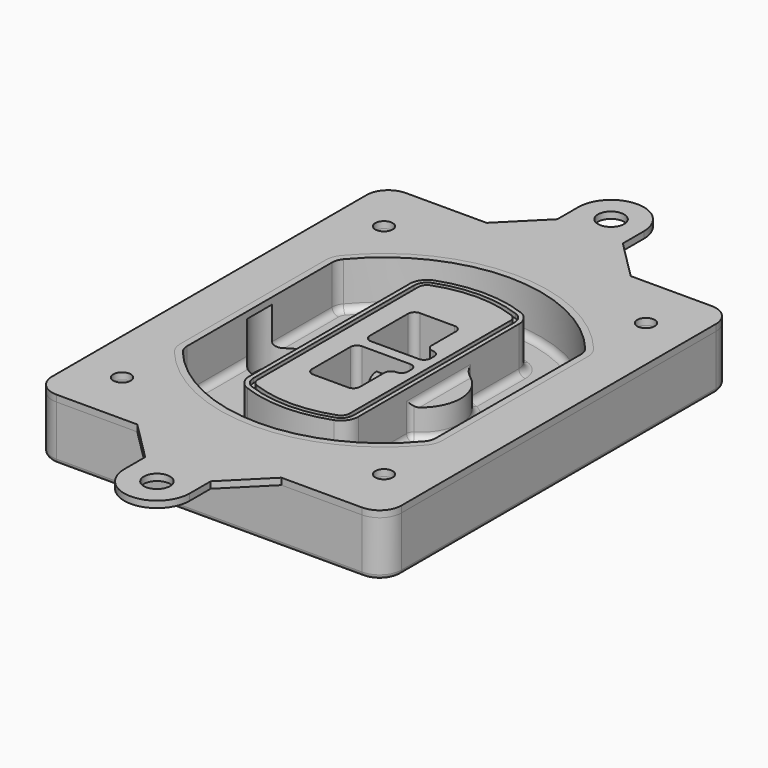
from build123d import *

# Parameters (mm, degrees)
F0_R      = 4
F1_DEPTH  = 25
F2_DEPTH  = 3
F3_DEPTH  = 18
F5_DEPTH  = 21
F6_DEPTH  = 2
F8_DEPTH  = 20
F9_DEPTH  = 16
F10_DEPTH = 25
F7_R      = 6
F7_R_2    = 4
F11_DEPTH = 6
F13_DEPTH = 9
F14_R     = 3
F15_R     = 2
F16_R     = 4
F16_R_2   = 6
F17_DEPTH = 3


with BuildPart() as f1:
    # F0 (on Top) → F1 (new body)
    with BuildSketch(Plane.XY):
        with BuildLine():
            ThreePointArc((-80, -90), (-77.0710678119, -97.0710678119), (-70, -100))
            Line((-70, -100), (70, -100))
            ThreePointArc((70, -100), (77.0710678119, -97.0710678119), (80, -90))
            Line((80, -90), (80, 90))
            ThreePointArc((80, 90), (77.0710678119, 97.0710678119), (70, 100))
            Line((70, 100), (-70, 100))
            ThreePointArc((-70, 100), (-77.0710678119, 97.0710678119), (-80, 90))
            Line((-80, 90), (-80, -90))
        make_face()
        with Locations((-60, -75)):
            Circle(F0_R, mode=Mode.SUBTRACT)
        with Locations((60, -75)):
            Circle(F0_R, mode=Mode.SUBTRACT)
        with Locations((-60, 75)):
            Circle(F0_R, mode=Mode.SUBTRACT)
        with BuildLine():
            ThreePointArc((-64, 41.5331193146), (-63.1675592038, 46.288682858), (-60.7692307692, 50.4787142439))
            ThreePointArc((-60.7692307692, 50.4787142439), (0, 79), (60.7692307692, 50.4787142439))
            ThreePointArc((60.7692307692, 50.4787142439), (63.1675592038, 46.288682858), (64, 41.5331193146))
            Line((64, 41.5331193146), (64, -41.5331193146))
            ThreePointArc((64, -41.5331193146), (63.1675592038, -46.288682858), (60.7692307692, -50.4787142439))
            ThreePointArc((60.7692307692, -50.4787142439), (0, -79), (-60.7692307692, -50.4787142439))
            ThreePointArc((-60.7692307692, -50.4787142439), (-63.1675592038, -46.288682858), (-64, -41.5331193146))
            Line((-64, -41.5331193146), (-64, 41.5331193146))
        make_face(mode=Mode.SUBTRACT)
        with Locations((60, 75)):
            Circle(F0_R, mode=Mode.SUBTRACT)
        with BuildLine():
            ThreePointArc((60.7692307692, 50.4787142439), (0, 79), (-60.7692307692, 50.4787142439))
            ThreePointArc((-60.7692307692, 50.4787142439), (-63.1675592038, 46.288682858), (-64, 41.5331193146))
            Line((-64, 41.5331193146), (-64, -41.5331193146))
            ThreePointArc((-64, -41.5331193146), (-63.1675592038, -46.288682858), (-60.7692307692, -50.4787142439))
            ThreePointArc((-60.7692307692, -50.4787142439), (0, -79), (60.7692307692, -50.4787142439))
            ThreePointArc((60.7692307692, -50.4787142439), (63.1675592038, -46.288682858), (64, -41.5331193146))
            Line((64, -41.5331193146), (64, 41.5331193146))
            ThreePointArc((64, 41.5331193146), (63.1675592038, 46.288682858), (60.7692307692, 50.4787142439))
        make_face()
        with BuildLine():
            Line((-60, -41.5331193146), (-60, 41.5331193146))
            ThreePointArc((-60, 41.5331193146), (-59.4053994313, 44.929950417), (-57.6923076923, 47.9228299784))
            ThreePointArc((-57.6923076923, 47.9228299784), (0, 75), (57.6923076923, 47.9228299784))
            ThreePointArc((57.6923076923, 47.9228299784), (59.4053994313, 44.929950417), (60, 41.5331193146))
            Line((60, 41.5331193146), (60, -41.5331193146))
            ThreePointArc((60, -41.5331193146), (59.4053994313, -44.929950417), (57.6923076923, -47.9228299784))
            ThreePointArc((57.6923076923, -47.9228299784), (0, -75), (-57.6923076923, -47.9228299784))
            ThreePointArc((-57.6923076923, -47.9228299784), (-59.4053994313, -44.929950417), (-60, -41.5331193146))
        make_face(mode=Mode.SUBTRACT)
        with BuildLine():
            ThreePointArc((-57.6923076923, 47.9228299784), (-59.4053994313, 44.929950417), (-60, 41.5331193146))
            Line((-60, 41.5331193146), (-60, -41.5331193146))
            ThreePointArc((-60, -41.5331193146), (-59.4053994313, -44.929950417), (-57.6923076923, -47.9228299784))
            ThreePointArc((-57.6923076923, -47.9228299784), (0, -75), (57.6923076923, -47.9228299784))
            ThreePointArc((57.6923076923, -47.9228299784), (59.4053994313, -44.929950417), (60, -41.5331193146))
            Line((60, -41.5331193146), (60, 41.5331193146))
            ThreePointArc((60, 41.5331193146), (59.4053994313, 44.929950417), (57.6923076923, 47.9228299784))
            ThreePointArc((57.6923076923, 47.9228299784), (0, 75), (-57.6923076923, 47.9228299784))
        make_face()
        with BuildLine():
            ThreePointArc((55.3846153846, 46.0059167792), (56.5837796019, 43.9109010863), (57, 41.5331193146))
            Line((57, 41.5331193146), (57, -41.5331193146))
            ThreePointArc((57, -41.5331193146), (56.5837796019, -43.9109010863), (55.3846153846, -46.0059167792))
            ThreePointArc((55.3846153846, -46.0059167792), (0, -72), (-55.3846153846, -46.0059167792))
            ThreePointArc((-55.3846153846, -46.0059167792), (-56.5837796019, -43.9109010863), (-57, -41.5331193146))
            Line((-57, -41.5331193146), (-57, 41.5331193146))
            ThreePointArc((-57, 41.5331193146), (-56.5837796019, 43.9109010863), (-55.3846153846, 46.0059167792))
            ThreePointArc((-55.3846153846, 46.0059167792), (0, 72), (55.3846153846, 46.0059167792))
        make_face(mode=Mode.SUBTRACT)
        with BuildLine():
            Line((57, -41.5331193146), (57, 41.5331193146))
            ThreePointArc((57, 41.5331193146), (56.5837796019, 43.9109010863), (55.3846153846, 46.0059167792))
            ThreePointArc((55.3846153846, 46.0059167792), (0, 72), (-55.3846153846, 46.0059167792))
            ThreePointArc((-55.3846153846, 46.0059167792), (-56.5837796019, 43.9109010863), (-57, 41.5331193146))
            Line((-57, 41.5331193146), (-57, -41.5331193146))
            ThreePointArc((-57, -41.5331193146), (-56.5837796019, -43.9109010863), (-55.3846153846, -46.0059167792))
            ThreePointArc((-55.3846153846, -46.0059167792), (0, -72), (55.3846153846, -46.0059167792))
            ThreePointArc((55.3846153846, -46.0059167792), (56.5837796019, -43.9109010863), (57, -41.5331193146))
        make_face()
    extrude(amount=-F1_DEPTH)

    # F0 (on Top) → F2 (join)
    with BuildSketch(Plane.XY):
        with BuildLine():
            ThreePointArc((-57.6923076923, 47.9228299784), (-59.4053994313, 44.929950417), (-60, 41.5331193146))
            Line((-60, 41.5331193146), (-60, -41.5331193146))
            ThreePointArc((-60, -41.5331193146), (-59.4053994313, -44.929950417), (-57.6923076923, -47.9228299784))
            ThreePointArc((-57.6923076923, -47.9228299784), (0, -75), (57.6923076923, -47.9228299784))
            ThreePointArc((57.6923076923, -47.9228299784), (59.4053994313, -44.929950417), (60, -41.5331193146))
            Line((60, -41.5331193146), (60, 41.5331193146))
            ThreePointArc((60, 41.5331193146), (59.4053994313, 44.929950417), (57.6923076923, 47.9228299784))
            ThreePointArc((57.6923076923, 47.9228299784), (0, 75), (-57.6923076923, 47.9228299784))
        make_face()
        with BuildLine():
            ThreePointArc((55.3846153846, 46.0059167792), (56.5837796019, 43.9109010863), (57, 41.5331193146))
            Line((57, 41.5331193146), (57, -41.5331193146))
            ThreePointArc((57, -41.5331193146), (56.5837796019, -43.9109010863), (55.3846153846, -46.0059167792))
            ThreePointArc((55.3846153846, -46.0059167792), (0, -72), (-55.3846153846, -46.0059167792))
            ThreePointArc((-55.3846153846, -46.0059167792), (-56.5837796019, -43.9109010863), (-57, -41.5331193146))
            Line((-57, -41.5331193146), (-57, 41.5331193146))
            ThreePointArc((-57, 41.5331193146), (-56.5837796019, 43.9109010863), (-55.3846153846, 46.0059167792))
            ThreePointArc((-55.3846153846, 46.0059167792), (0, 72), (55.3846153846, 46.0059167792))
        make_face(mode=Mode.SUBTRACT)
    extrude(amount=F2_DEPTH)

    # F0 (on Top) → F3 (cut)
    with BuildSketch(Plane.XY):
        with BuildLine():
            Line((57, -41.5331193146), (57, 41.5331193146))
            ThreePointArc((57, 41.5331193146), (56.5837796019, 43.9109010863), (55.3846153846, 46.0059167792))
            ThreePointArc((55.3846153846, 46.0059167792), (0, 72), (-55.3846153846, 46.0059167792))
            ThreePointArc((-55.3846153846, 46.0059167792), (-56.5837796019, 43.9109010863), (-57, 41.5331193146))
            Line((-57, 41.5331193146), (-57, -41.5331193146))
            ThreePointArc((-57, -41.5331193146), (-56.5837796019, -43.9109010863), (-55.3846153846, -46.0059167792))
            ThreePointArc((-55.3846153846, -46.0059167792), (0, -72), (55.3846153846, -46.0059167792))
            ThreePointArc((55.3846153846, -46.0059167792), (56.5837796019, -43.9109010863), (57, -41.5331193146))
        make_face()
    extrude(amount=-F3_DEPTH, mode=Mode.SUBTRACT)

    # F4 (on face) → F5 (join, through all)
    with BuildSketch(Plane.XY.offset(3)):
        with BuildLine():
            ThreePointArc((-25, -45.9565011723), (-23.5652144532, -50.5279297437), (-19.7755102041, -53.4596034045))
            ThreePointArc((-19.7755102041, -53.4596034045), (0, -57), (19.7755102041, -53.4596034045))
            ThreePointArc((19.7755102041, -53.4596034045), (23.5652144532, -50.5279297437), (25, -45.9565011723))
            Line((25, -45.9565011723), (25, 45.9565011723))
            ThreePointArc((25, 45.9565011723), (23.5652144532, 50.5279297437), (19.7755102041, 53.4596034045))
            ThreePointArc((19.7755102041, 53.4596034045), (0, 57), (-19.7755102041, 53.4596034045))
            ThreePointArc((-19.7755102041, 53.4596034045), (-23.5652144532, 50.5279297437), (-25, 45.9565011723))
            Line((-25, 45.9565011723), (-25, -45.9565011723))
        make_face()
        with BuildLine():
            ThreePointArc((19.0816326531, 51.5838278465), (21.9239108399, 49.3850726009), (23, 45.9565011723))
            Line((23, 45.9565011723), (23, -45.9565011723))
            ThreePointArc((23, -45.9565011723), (21.9239108399, -49.3850726009), (19.0816326531, -51.5838278465))
            ThreePointArc((19.0816326531, -51.5838278465), (0, -55), (-19.0816326531, -51.5838278465))
            ThreePointArc((-19.0816326531, -51.5838278465), (-21.9239108399, -49.3850726009), (-23, -45.9565011723))
            Line((-23, -45.9565011723), (-23, 45.9565011723))
            ThreePointArc((-23, 45.9565011723), (-21.9239108399, 49.3850726009), (-19.0816326531, 51.5838278465))
            ThreePointArc((-19.0816326531, 51.5838278465), (0, 55), (19.0816326531, 51.5838278465))
        make_face(mode=Mode.SUBTRACT)
        with BuildLine():
            Line((23, -45.9565011723), (23, 45.9565011723))
            ThreePointArc((23, 45.9565011723), (21.9239108399, 49.3850726009), (19.0816326531, 51.5838278465))
            ThreePointArc((19.0816326531, 51.5838278465), (0, 55), (-19.0816326531, 51.5838278465))
            ThreePointArc((-19.0816326531, 51.5838278465), (-21.9239108399, 49.3850726009), (-23, 45.9565011723))
            Line((-23, 45.9565011723), (-23, -45.9565011723))
            ThreePointArc((-23, -45.9565011723), (-21.9239108399, -49.3850726009), (-19.0816326531, -51.5838278465))
            ThreePointArc((-19.0816326531, -51.5838278465), (0, -55), (19.0816326531, -51.5838278465))
            ThreePointArc((19.0816326531, -51.5838278465), (21.9239108399, -49.3850726009), (23, -45.9565011723))
        make_face()
        with BuildLine():
            ThreePointArc((18.387755102, 49.7080522884), (20.2826072266, 48.242215458), (21, 45.9565011723))
            Line((21, 45.9565011723), (21, -45.9565011723))
            ThreePointArc((21, -45.9565011723), (20.2826072266, -48.242215458), (18.387755102, -49.7080522884))
            ThreePointArc((18.387755102, -49.7080522884), (0, -53), (-18.387755102, -49.7080522884))
            ThreePointArc((-18.387755102, -49.7080522884), (-20.2826072266, -48.242215458), (-21, -45.9565011723))
            Line((-21, -45.9565011723), (-21, 45.9565011723))
            ThreePointArc((-21, 45.9565011723), (-20.2826072266, 48.242215458), (-18.387755102, 49.7080522884))
            ThreePointArc((-18.387755102, 49.7080522884), (0, 53), (18.387755102, 49.7080522884))
        make_face(mode=Mode.SUBTRACT)
        with BuildLine():
            Line((21, -45.9565011723), (21, 45.9565011723))
            ThreePointArc((21, 45.9565011723), (20.2826072266, 48.242215458), (18.387755102, 49.7080522884))
            ThreePointArc((18.387755102, 49.7080522884), (0, 53), (-18.387755102, 49.7080522884))
            ThreePointArc((-18.387755102, 49.7080522884), (-20.2826072266, 48.242215458), (-21, 45.9565011723))
            Line((-21, 45.9565011723), (-21, -45.9565011723))
            ThreePointArc((-21, -45.9565011723), (-20.2826072266, -48.242215458), (-18.387755102, -49.7080522884))
            ThreePointArc((-18.387755102, -49.7080522884), (0, -53), (18.387755102, -49.7080522884))
            ThreePointArc((18.387755102, -49.7080522884), (20.2826072266, -48.242215458), (21, -45.9565011723))
        make_face()
        with BuildLine():
            Line((-8, -2.5), (14, -2.5))
            ThreePointArc((14, -2.5), (16.1213203436, -3.3786796564), (17, -5.5))
            Line((17, -5.5), (17, -7.5))
            ThreePointArc((17, -7.5), (16.1213203436, -9.6213203436), (14, -10.5))
            ThreePointArc((14, -10.5), (11.8786796564, -11.3786796564), (11, -13.5))
            Line((11, -13.5), (11, -27.5))
            ThreePointArc((11, -27.5), (10.1213203436, -29.6213203436), (8, -30.5))
            Line((8, -30.5), (-8, -30.5))
            ThreePointArc((-8, -30.5), (-10.1213203436, -29.6213203436), (-11, -27.5))
            Line((-11, -27.5), (-11, -5.5))
            ThreePointArc((-11, -5.5), (-10.1213203436, -3.3786796564), (-8, -2.5))
        make_face(mode=Mode.SUBTRACT)
        with BuildLine():
            ThreePointArc((-8, 2.5), (-10.1213203436, 3.3786796564), (-11, 5.5))
            Line((-11, 5.5), (-11, 27.5))
            ThreePointArc((-11, 27.5), (-10.1213203436, 29.6213203436), (-8, 30.5))
            Line((-8, 30.5), (8, 30.5))
            ThreePointArc((8, 30.5), (10.1213203436, 29.6213203436), (11, 27.5))
            Line((11, 27.5), (11, 13.5))
            ThreePointArc((11, 13.5), (11.8786796564, 11.3786796564), (14, 10.5))
            ThreePointArc((14, 10.5), (16.1213203436, 9.6213203436), (17, 7.5))
            Line((17, 7.5), (17, 5.5))
            ThreePointArc((17, 5.5), (16.1213203436, 3.3786796564), (14, 2.5))
            Line((14, 2.5), (-8, 2.5))
        make_face(mode=Mode.SUBTRACT)
    extrude(amount=-F5_DEPTH)

    # F4 (on face) → F6 (cut)
    with BuildSketch(Plane.XY.offset(3)):
        with BuildLine():
            Line((23, -45.9565011723), (23, 45.9565011723))
            ThreePointArc((23, 45.9565011723), (21.9239108399, 49.3850726009), (19.0816326531, 51.5838278465))
            ThreePointArc((19.0816326531, 51.5838278465), (0, 55), (-19.0816326531, 51.5838278465))
            ThreePointArc((-19.0816326531, 51.5838278465), (-21.9239108399, 49.3850726009), (-23, 45.9565011723))
            Line((-23, 45.9565011723), (-23, -45.9565011723))
            ThreePointArc((-23, -45.9565011723), (-21.9239108399, -49.3850726009), (-19.0816326531, -51.5838278465))
            ThreePointArc((-19.0816326531, -51.5838278465), (0, -55), (19.0816326531, -51.5838278465))
            ThreePointArc((19.0816326531, -51.5838278465), (21.9239108399, -49.3850726009), (23, -45.9565011723))
        make_face()
        with BuildLine():
            ThreePointArc((18.387755102, 49.7080522884), (20.2826072266, 48.242215458), (21, 45.9565011723))
            Line((21, 45.9565011723), (21, -45.9565011723))
            ThreePointArc((21, -45.9565011723), (20.2826072266, -48.242215458), (18.387755102, -49.7080522884))
            ThreePointArc((18.387755102, -49.7080522884), (0, -53), (-18.387755102, -49.7080522884))
            ThreePointArc((-18.387755102, -49.7080522884), (-20.2826072266, -48.242215458), (-21, -45.9565011723))
            Line((-21, -45.9565011723), (-21, 45.9565011723))
            ThreePointArc((-21, 45.9565011723), (-20.2826072266, 48.242215458), (-18.387755102, 49.7080522884))
            ThreePointArc((-18.387755102, 49.7080522884), (0, 53), (18.387755102, 49.7080522884))
        make_face(mode=Mode.SUBTRACT)
    extrude(amount=-F6_DEPTH, mode=Mode.SUBTRACT)

    # F7 (on face) → F8 (join)
    with BuildSketch(Plane(origin=(0, 0, -25), x_dir=(1, 0, 0), z_dir=(0, 0, -1))):
        with BuildLine():
            ThreePointArc((3.28842436, 0), (16.7567035675, 13.4682792075), (30.224982775, 0))
            Line((30.224982775, 0), (35.224982775, 0))
            ThreePointArc((35.224982775, 0), (16.7567035675, 18.4682792075), (-1.71157564, 0))
            Line((-1.71157564, 0), (3.28842436, 0))
        make_face()
        with BuildLine():
            Line((3.28842436, 0), (30.224982775, 0))
            ThreePointArc((30.224982775, 0), (16.7567035675, 13.4682792075), (3.28842436, 0))
        make_face()
        with BuildLine():
            ThreePointArc((3.28842436, 0), (16.7567035675, -13.4682792075), (30.224982775, 0))
            Line((30.224982775, 0), (3.28842436, 0))
        make_face()
        with BuildLine():
            Line((35.224982775, 0), (30.224982775, 0))
            ThreePointArc((30.224982775, 0), (16.7567035675, -13.4682792075), (3.28842436, 0))
            Line((3.28842436, 0), (-1.71157564, 0))
            ThreePointArc((-1.71157564, 0), (16.7567035675, -18.4682792075), (35.224982775, 0))
        make_face()
    extrude(amount=-F8_DEPTH)

    # F7 (on face) → F9 (cut)
    with BuildSketch(Plane(origin=(0, 0, -25), x_dir=(1, 0, 0), z_dir=(0, 0, -1))):
        with BuildLine():
            Line((3.28842436, 0), (30.224982775, 0))
            ThreePointArc((30.224982775, 0), (16.7567035675, 13.4682792075), (3.28842436, 0))
        make_face()
        with BuildLine():
            ThreePointArc((3.28842436, 0), (16.7567035675, -13.4682792075), (30.224982775, 0))
            Line((30.224982775, 0), (3.28842436, 0))
        make_face()
    extrude(amount=-F9_DEPTH, mode=Mode.SUBTRACT)

    # F7 (on face) → F10 (cut)
    with BuildSketch(Plane(origin=(0, 0, -25), x_dir=(1, 0, 0), z_dir=(0, 0, -1))):
        with BuildLine():
            Line((-59.0318229325, 0), (-32.0952645175, 0))
            ThreePointArc((-32.0952645175, 0), (-45.563543725, 13.4682792075), (-59.0318229325, 0))
        make_face()
        with BuildLine():
            ThreePointArc((-59.0318229325, 0), (-45.563543725, -13.4682792075), (-32.0952645175, 0))
            Line((-32.0952645175, 0), (-59.0318229325, 0))
        make_face()
    extrude(amount=-F10_DEPTH, mode=Mode.SUBTRACT)

    # F7 (on face) → F11 (cut)
    with BuildSketch(Plane(origin=(0, 0, -25), x_dir=(1, 0, 0), z_dir=(0, 0, -1))):
        with Locations((60, -75)):
            Circle(F7_R)
        with Locations((60, -75)):
            Circle(F7_R_2, mode=Mode.SUBTRACT)
        with Locations((60, -75)):
            Circle(F7_R)
        with Locations((60, -75)):
            Circle(F7_R_2, mode=Mode.SUBTRACT)
        with Locations((-60, -75)):
            Circle(F7_R)
        with Locations((-60, -75)):
            Circle(F7_R_2, mode=Mode.SUBTRACT)
        with Locations((-60, -75)):
            Circle(F7_R)
        with Locations((-60, -75)):
            Circle(F7_R_2, mode=Mode.SUBTRACT)
        with Locations((-60, 75)):
            Circle(F7_R)
        with Locations((-60, 75)):
            Circle(F7_R_2, mode=Mode.SUBTRACT)
        with Locations((-60, 75)):
            Circle(F7_R)
        with Locations((-60, 75)):
            Circle(F7_R_2, mode=Mode.SUBTRACT)
        with Locations((60, 75)):
            Circle(F7_R)
        with Locations((60, 75)):
            Circle(F7_R_2, mode=Mode.SUBTRACT)
        with Locations((60, 75)):
            Circle(F7_R)
        with Locations((60, 75)):
            Circle(F7_R_2, mode=Mode.SUBTRACT)
    extrude(amount=-F11_DEPTH, mode=Mode.SUBTRACT)

    # F12 (on face) → F13 (cut, through all)
    with BuildSketch(Plane(origin=(0, 0, -9), x_dir=(1, 0, 0), z_dir=(0, 0, -1))):
        with BuildLine():
            Line((11, 13.5), (11, 17.5481537753))
            ThreePointArc((11, 17.5481537753), (2.5696536419, 11.8239143813), (-1.5415842455, 2.5))
            Line((-1.5415842455, 2.5), (3.5224848595, 2.5))
            ThreePointArc((3.5224848595, 2.5), (6.1857188154, 8.3455872281), (11.2536447004, 12.2927168648))
            ThreePointArc((11.2536447004, 12.2927168648), (11.0640958889, 12.8831798879), (11, 13.5))
        make_face()
        with BuildLine():
            ThreePointArc((11.2536447004, -12.2927168648), (6.1857188154, -8.3455872281), (3.5224848595, -2.5))
            Line((3.5224848595, -2.5), (-1.5415842455, -2.5))
            ThreePointArc((-1.5415842455, -2.5), (2.5696536419, -11.8239143813), (11, -17.5481537753))
            Line((11, -17.5481537753), (11, -13.5))
            ThreePointArc((11, -13.5), (11.0640958889, -12.8831798879), (11.2536447004, -12.2927168648))
        make_face()
        with BuildLine():
            ThreePointArc((11.2536447004, 12.2927168648), (6.1857188154, 8.3455872281), (3.5224848595, 2.5))
            Line((3.5224848595, 2.5), (14, 2.5))
            ThreePointArc((14, 2.5), (16.1213203436, 3.3786796564), (17, 5.5))
            Line((17, 5.5), (17, 7.5))
            ThreePointArc((17, 7.5), (16.1213203436, 9.6213203436), (14, 10.5))
            ThreePointArc((14, 10.5), (12.3601599782, 10.9878446101), (11.2536447004, 12.2927168648))
        make_face()
        with BuildLine():
            Line((14, -2.5), (3.5224848595, -2.5))
            ThreePointArc((3.5224848595, -2.5), (6.1857188154, -8.3455872281), (11.2536447004, -12.2927168648))
            ThreePointArc((11.2536447004, -12.2927168648), (12.3601599782, -10.9878446101), (14, -10.5))
            ThreePointArc((14, -10.5), (16.1213203436, -9.6213203436), (17, -7.5))
            Line((17, -7.5), (17, -5.5))
            ThreePointArc((17, -5.5), (16.1213203436, -3.3786796564), (14, -2.5))
        make_face()
    extrude(amount=F13_DEPTH, mode=Mode.SUBTRACT)

    # F14
    f14_edges = [f1.edges().sort_by_distance(p)[0] for p in [
        (-57, -24.323314, -18),
        (-57, 24.323314, -18),
        (25, 0, -5),
        (25, 16.526506, -11.5),
        (25, -16.526506, -11.5),
        (25, -31.241504, -18),
        (35.224983, 0, -18),
    ]]
    fillet(f14_edges, radius=F14_R)

    # F15
    f15_edges = [f1.edges().sort_by_distance(p)[0] for p in [
        (0, -100, -25),
    ]]
    fillet(f15_edges, radius=F15_R)


with BuildPart() as f17:
    # F16 (on face) → F17 (new body, through all)
    with BuildSketch(Plane.XY):
        with BuildLine():
            Line((33, 100), (-33, 100))
            Line((-33, 100), (-70, 100))
            ThreePointArc((-70, 100), (-77.0710678119, 97.0710678119), (-80, 90))
            Line((-80, 90), (-80, -90))
            ThreePointArc((-80, -90), (-77.0710678119, -97.0710678119), (-70, -100))
            Line((-70, -100), (-33, -100))
            Line((-33, -100), (33, -100))
            Line((33, -100), (70, -100))
            ThreePointArc((70, -100), (77.0710678119, -97.0710678119), (80, -90))
            Line((80, -90), (80, 90))
            ThreePointArc((80, 90), (77.0710678119, 97.0710678119), (70, 100))
            Line((70, 100), (33, 100))
        make_face()
        with Locations((-60, -75)):
            Circle(F16_R, mode=Mode.SUBTRACT)
        with Locations((60, -75)):
            Circle(F16_R, mode=Mode.SUBTRACT)
        with Locations((-60, 75)):
            Circle(F16_R, mode=Mode.SUBTRACT)
        with BuildLine():
            ThreePointArc((-60, 41.5331193146), (-59.4053994313, 44.929950417), (-57.6923076923, 47.9228299784))
            ThreePointArc((-57.6923076923, 47.9228299784), (0, 75), (57.6923076923, 47.9228299784))
            ThreePointArc((57.6923076923, 47.9228299784), (59.4053994313, 44.929950417), (60, 41.5331193146))
            Line((60, 41.5331193146), (60, -41.5331193146))
            ThreePointArc((60, -41.5331193146), (59.4053994313, -44.929950417), (57.6923076923, -47.9228299784))
            ThreePointArc((57.6923076923, -47.9228299784), (0, -75), (-57.6923076923, -47.9228299784))
            ThreePointArc((-57.6923076923, -47.9228299784), (-59.4053994313, -44.929950417), (-60, -41.5331193146))
            Line((-60, -41.5331193146), (-60, 41.5331193146))
        make_face(mode=Mode.SUBTRACT)
        with Locations((60, 75)):
            Circle(F16_R, mode=Mode.SUBTRACT)
        with BuildLine():
            Line((-15, 118), (-33, 100))
            Line((-33, 100), (33, 100))
            Line((33, 100), (15, 118))
            Line((15, 118), (15, 130))
            ThreePointArc((15, 130), (0, 145), (-15, 130))
            Line((-15, 130), (-15, 118))
        make_face()
        with Locations((0, 130)):
            Circle(F16_R_2, mode=Mode.SUBTRACT)
        with BuildLine():
            Line((33, -100), (-33, -100))
            Line((-33, -100), (-15, -118))
            Line((-15, -118), (-15, -130))
            ThreePointArc((-15, -130), (0, -145), (15, -130))
            Line((15, -130), (15, -118))
            Line((15, -118), (33, -100))
        make_face()
        with Locations((0, -130)):
            Circle(F16_R_2, mode=Mode.SUBTRACT)
    extrude(amount=F17_DEPTH)


solid = Compound([f1.part, f17.part])
